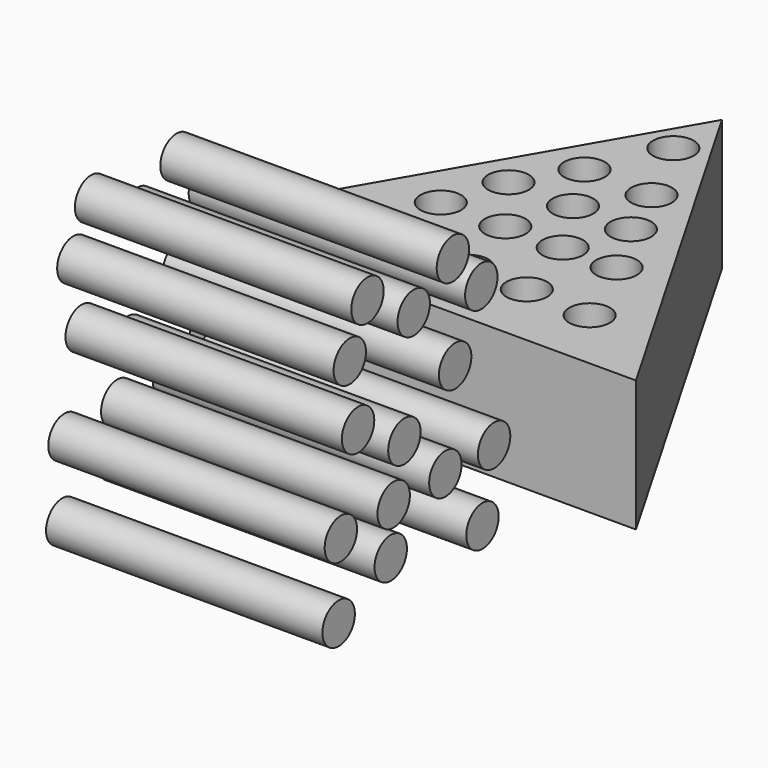
from build123d import *

# Parameters (mm, degrees)
F1_DEPTH = 26.162
F2_R     = 4.064
F3_DEPTH = 20.32
F4_R     = 4.0386
F5_DEPTH = 55.118


with BuildPart() as f1:
    # F0 (on Top) → F1 (new body)
    with BuildSketch(Plane.XY):
        Polygon((-31.508575, 76.989658), (-75.958575, 0), (12.941425, 0), align=None)
        Polygon((-31.508575, 76.989658), (-75.958575, 0), (12.941425, 0), align=None)
    extrude(amount=F1_DEPTH)

    # F2 (on face) → F3 (cut)
    with BuildSketch(Plane.XY.offset(26.162)):
        with Locations((-31.445071, 64.804621)):
            Circle(F2_R)
        with Locations((-37.757464, 50.543293)):
            Circle(F2_R)
        with Locations((-24.197508, 50.309498)):
            Circle(F2_R)
        with Locations((-44.303652, 39.788842)):
            Circle(F2_R)
        with Locations((-31.445071, 39.788842)):
            Circle(F2_R)
        with Locations((-19.521663, 39.321255)):
            Circle(F2_R)
        with Locations((-13.204386, 27.865432)):
            Circle(F2_R)
        with Locations((-23.959462, 27.865432)):
            Circle(F2_R)
        with Locations((-35.415959, 27.865432)):
            Circle(F2_R)
        with Locations((-48.275292, 27.865432)):
            Circle(F2_R)
        with Locations((-57.861339, 15.708229)):
            Circle(F2_R)
        with Locations((-44.066783, 14.773059)):
            Circle(F2_R)
        with Locations((-31.445071, 13.604097)):
            Circle(F2_R)
        with Locations((-19.521663, 13.36745)):
            Circle(F2_R)
        with Locations((-6.424007, 12.664498)):
            Circle(F2_R)
    extrude(amount=-F3_DEPTH, mode=Mode.SUBTRACT)


with BuildPart() as f5:
    # F4 (on Right) → F5 (new body)
    with BuildSketch(Plane.YZ):
        with Locations((-39.210431, 49.804218)):
            Circle(F4_R)
        with Locations((-50.741833, 56.667201)):
            Circle(F4_R)
        with Locations((-55.158049, 47.757231)):
            Circle(F4_R)
        with Locations((-53.086717, 34.882657)):
            Circle(F4_R)
        with Locations((-22.372635, 47.598351)):
            Circle(F4_R)
        with Locations((-29.450048, 55.315051)):
            Circle(F4_R)
        with Locations((-28.890472, 36.261428)):
            Circle(F4_R)
        with Locations((-41.53778, 28.179377)):
            Circle(F4_R)
        with Locations((-44.213392, 18.140558)):
            Circle(F4_R)
        with Locations((-57.377227, 17.522493)):
            Circle(F4_R)
        with Locations((-44.944454, 9.071624)):
            Circle(F4_R)
        with Locations((-31.332582, 18.321363)):
            Circle(F4_R)
        with Locations((-19.180721, 18.361948)):
            Circle(F4_R)
        with Locations((-22.081727, 5.400585)):
            Circle(F4_R)
        with Locations((-57.926845, 2.86965)):
            Circle(F4_R)
    extrude(amount=-F5_DEPTH)


solid = Compound([f1.part, f5.part])
